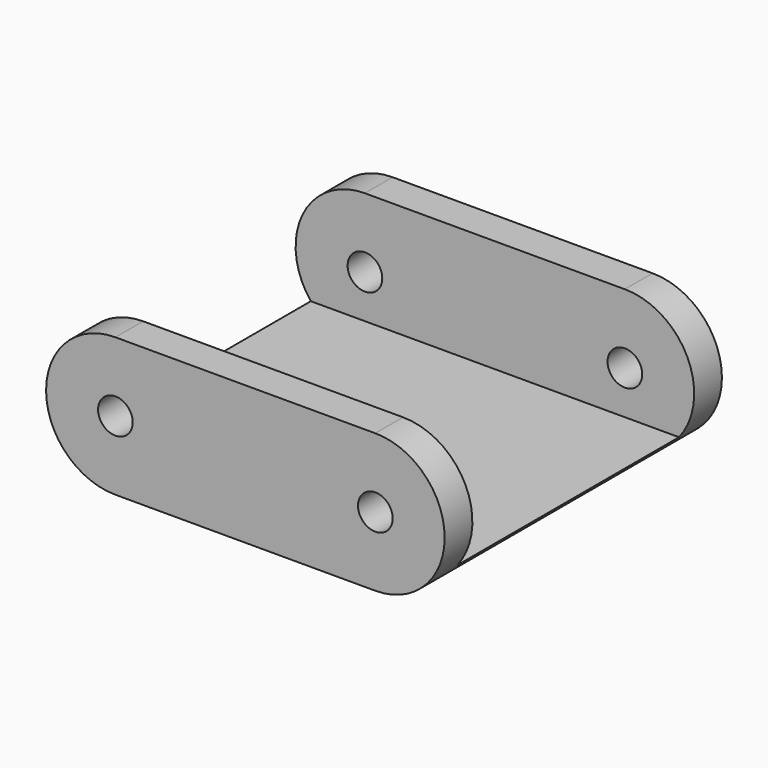
from build123d import *

# Parameters (mm, degrees)
F0_R          = 2
F1_DEPTH      = 40
F2_W          = 32
F2_H          = 13
F3_DEPTH      = 38.001
F3_DEPTH_BACK = 25


with BuildPart() as f1:
    # F0 (on Front) → F1 (new body)
    with BuildSketch(Plane.XZ):
        with BuildLine():
            Line((30, 8), (0, 8))
            ThreePointArc((0, 8), (-8, 0), (0, -8))
            Line((0, -8), (30, -8))
            ThreePointArc((30, -8), (38, 0), (30, 8))
        make_face()
        Circle(F0_R, mode=Mode.SUBTRACT)
        with Locations((30, 0)):
            Circle(F0_R, mode=Mode.SUBTRACT)
    extrude(amount=F1_DEPTH)

    # F2 (on Right) → F3 (cut, two sides)
    with BuildSketch(Plane.YZ) as f3_sk:
        with Locations((-20, 1.5)):
            Rectangle(F2_W, F2_H)
    extrude(amount=F3_DEPTH, mode=Mode.SUBTRACT)
    extrude(f3_sk.sketch, amount=-F3_DEPTH_BACK, mode=Mode.SUBTRACT)


solid = f1.part
